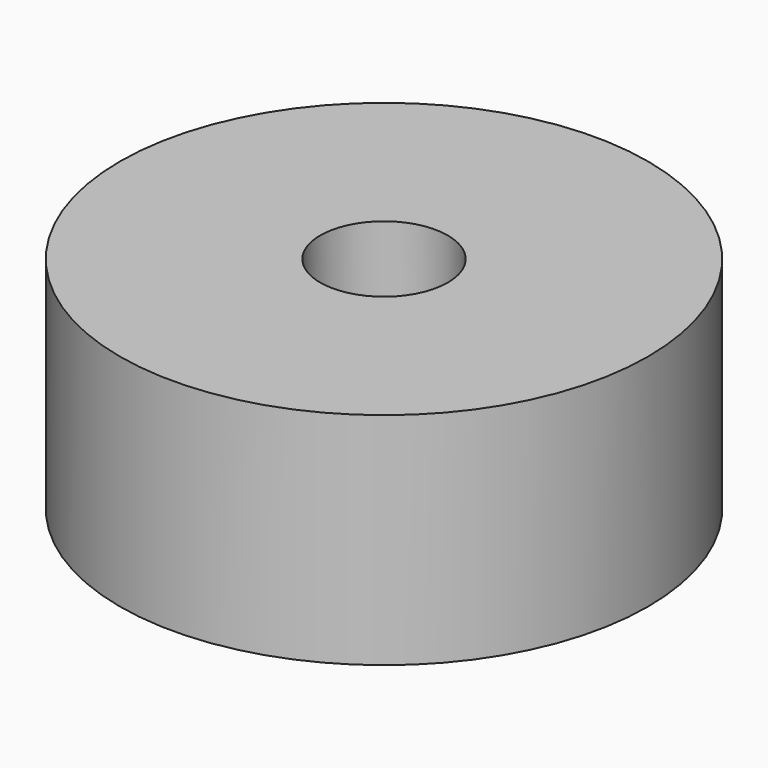
from build123d import *

# Parameters (mm, degrees)
SKETCH_R    = 30
PAD_DEPTH   = 25
SKETCH001_R = 7.25
HOLE_DEPTH  = 15.643761
HOLE_TIPS_R = 7.25


with BuildPart() as part:
    # Sketch → Pad (new body)
    with BuildSketch(Plane.XY):
        Circle(SKETCH_R)
    extrude(amount=-PAD_DEPTH)

    # Sketch001 (on Face2 of Pad) → Hole (cut)
    with BuildSketch(Plane.XY):
        Circle(SKETCH001_R)
    extrude(amount=-HOLE_DEPTH, mode=Mode.SUBTRACT)

    # Hole tips → Hole tip 1 section 0
    with BuildSketch(Plane.XY.offset(-15.643761), mode=Mode.PRIVATE) as hole_tip_1_s0:
        Circle(HOLE_TIPS_R)
    loft([hole_tip_1_s0.sketch, Vertex(0, 0, -20)], mode=Mode.SUBTRACT)


solid = part.part
